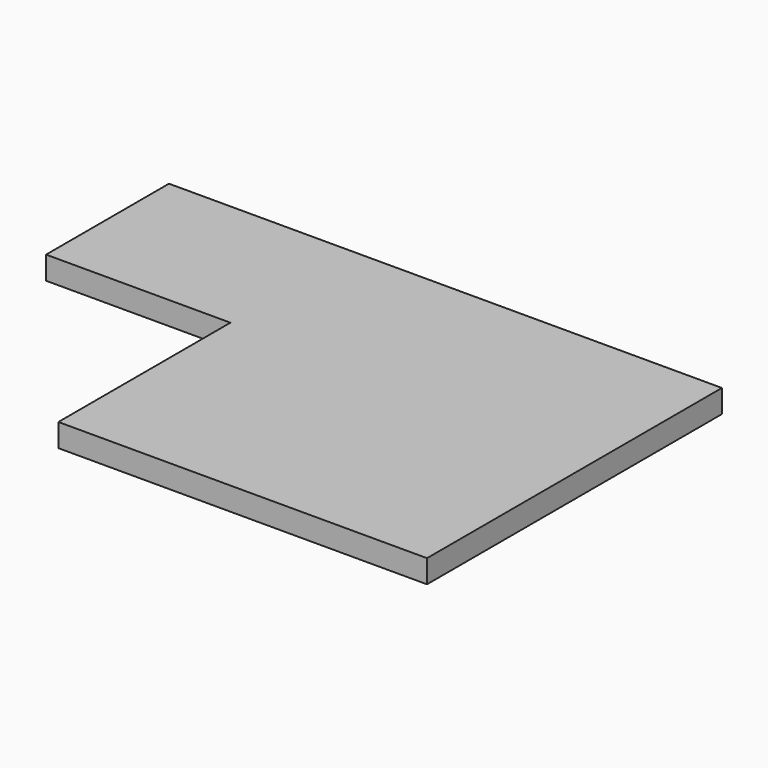
from build123d import *

# Parameters (mm, degrees)
F0_W     = 1828.8
F0_H     = 1524
F1_DEPTH = 228.6


with BuildPart() as f1:
    # F0 (on Top) → F1 (new body)
    with BuildSketch(Plane.XY):
        with Locations((923.2273994625, 1287.3771577835)):
            Rectangle(F0_W, F0_H)
        Polygon((5495.2273994625, 2049.3771577835), (1837.6273994625, 2049.3771577835), (1837.6273994625, 525.3771577835), (1837.6273994625, -1608.2228422165), (5495.2273994625, -1608.2228422165), align=None)
    extrude(amount=-F1_DEPTH)


solid = f1.part
